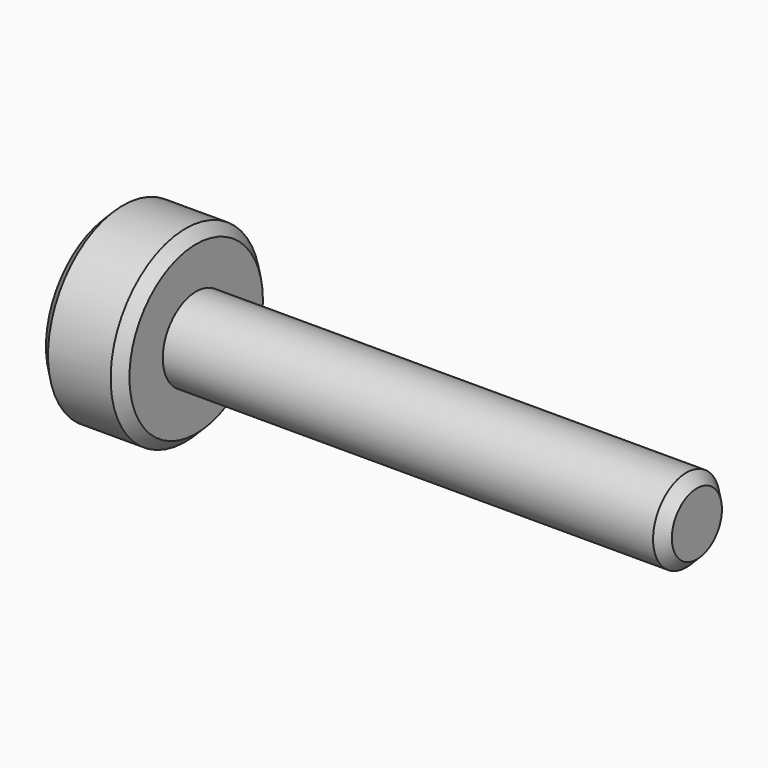
from build123d import *

# Parameters (mm, degrees)
F0_R     = 7.14375
F1_DEPTH = 6.35
F2_R     = 3.175
F3_DEPTH = 38.1
F4_SIZE  = 0.79375


with BuildPart() as f1:
    # F0 (on Right) → F1 (new body)
    with BuildSketch(Plane.YZ):
        Circle(F0_R)
    extrude(amount=F1_DEPTH)

    # F2 (on face) → F3 (join)
    with BuildSketch(Plane.YZ.offset(6.35)):
        Circle(F2_R)
    extrude(amount=F3_DEPTH)

    # F4
    f4_edges = [f1.edges().sort_by_distance(p)[0] for p in [
        (6.35, -7.14375, 0),
        (0, -7.14375, 0),
        (44.45, -3.175, 0),
    ]]
    chamfer(f4_edges, length=F4_SIZE)


solid = f1.part
